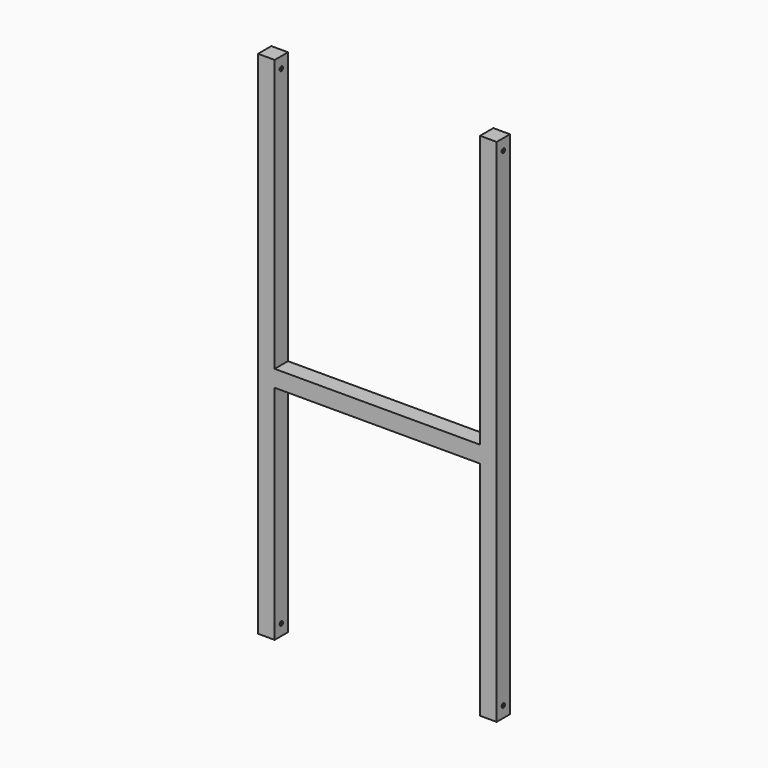
from build123d import *

# Parameters (mm, degrees)
F0_W     = 234.95
F0_H     = 19.05
F1_DEPTH = 19.05
F2_T     = -1.5875
F4_D     = 4.826
F6_D     = 4.826


with BuildPart() as f1:
    # F0 (on Front) → F1 (new body)
    with BuildSketch(Plane.XZ):
        Polygon((-106.4893787249, 190.1872142076), (-125.5393787249, 190.1872142076), (-125.5393787249, -394.0127857924), (-106.4893787249, -394.0127857924), (-106.4893787249, -140.0127857924), (-106.4893787249, -120.9627857924), align=None)
        with Locations((10.9856212751, -130.4877857924)):
            Rectangle(F0_W, F0_H)
        Polygon((128.4606212751, 190.1872142076), (128.4606212751, -120.9627857924), (128.4606212751, -140.0127857924), (128.4606212751, -394.0127857924), (147.5106212751, -394.0127857924), (147.5106212751, 190.1872142076), align=None)
    extrude(amount=F1_DEPTH)

    # F2 (hollow: no face is removed)
    offset(amount=F2_T, kind=Kind.INTERSECTION, mode=Mode.SUBTRACT)

    # F4 (through all)
    with Locations(Plane.YZ.offset(147.5106212751)):
        with Locations((-9.525, -381.3127857924)):
            Hole(F4_D / 2)

    # F6 (through all)
    with Locations(Plane.YZ.offset(147.5106212751)):
        with Locations((-9.525, 177.4872142076)):
            Hole(F6_D / 2)


solid = f1.part
